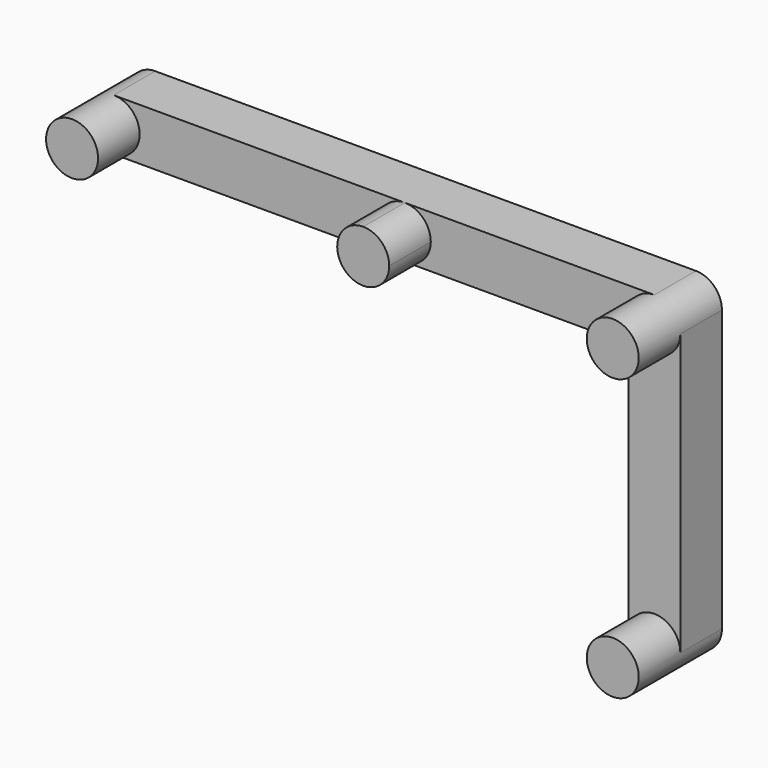
from build123d import *

# Parameters (mm, degrees)
F1_DEPTH = 5
F2_DEPTH = 10


with BuildPart() as f1:
    # F0 (on Front) → F1 (new body)
    with BuildSketch(Plane.XZ):
        with BuildLine():
            ThreePointArc((0, -2.5), (1.767766953, -1.767766953), (2.5, 0))
            ThreePointArc((2.5, 0), (1.767766953, 1.767766953), (0, 2.5))
            Line((0, 2.5), (0, -2.5))
        make_face()
        with BuildLine():
            ThreePointArc((0, 2.5), (1.767766953, 1.767766953), (2.5, 0))
            ThreePointArc((2.5, 0), (1.767766953, -1.767766953), (0, -2.5))
            Line((0, -2.5), (28, -2.5))
            ThreePointArc((28, -2.5), (25.5, 0), (28, 2.5))
            Line((28, 2.5), (0, 2.5))
        make_face()
        with BuildLine():
            Line((0, -2.5), (0, 2.5))
            ThreePointArc((0, 2.5), (-2.5, 0), (0, -2.5))
        make_face()
        with BuildLine():
            Line((52, 2.5), (28, 2.5))
            ThreePointArc((28, 2.5), (29.767766953, 1.767766953), (30.5, 0))
            ThreePointArc((30.5, 0), (29.767766953, -1.767766953), (28, -2.5))
            Line((28, -2.5), (49.5, -2.5))
            Line((49.5, -2.5), (49.5, 0))
            ThreePointArc((49.5, 0), (50.232233047, 1.767766953), (52, 2.5))
        make_face()
        with BuildLine():
            ThreePointArc((30.5, 0), (29.767766953, 1.767766953), (28, 2.5))
            ThreePointArc((28, 2.5), (25.5, 0), (28, -2.5))
            ThreePointArc((28, -2.5), (29.767766953, -1.767766953), (30.5, 0))
        make_face()
        with BuildLine():
            Line((52, 0), (52, 2.5))
            ThreePointArc((52, 2.5), (50.232233047, 1.767766953), (49.5, 0))
            Line((49.5, 0), (52, 0))
        make_face()
        with BuildLine():
            ThreePointArc((54.5, 0), (53.767766953, 1.767766953), (52, 2.5))
            Line((52, 2.5), (52, 0))
            Line((52, 0), (54.5, 0))
        make_face()
        with BuildLine():
            Line((49.5, 0), (49.5, -2.5))
            Line((49.5, -2.5), (52, -2.5))
            ThreePointArc((52, -2.5), (50.232233047, -1.767766953), (49.5, 0))
        make_face()
        with BuildLine():
            Line((52, -2.5), (49.5, -2.5))
            Line((49.5, -2.5), (49.5, -27))
            ThreePointArc((49.5, -27), (52, -24.5), (54.5, -27))
            Line((54.5, -27), (54.5, 0))
            ThreePointArc((54.5, 0), (53.767766953, -1.767766953), (52, -2.5))
        make_face()
        with BuildLine():
            ThreePointArc((52, -2.5), (53.767766953, -1.767766953), (54.5, 0))
            Line((54.5, 0), (52, 0))
            Line((52, 0), (52, -2.5))
        make_face()
        with BuildLine():
            Line((54.5, -27), (49.5, -27))
            ThreePointArc((49.5, -27), (52, -29.5), (54.5, -27))
        make_face()
        with BuildLine():
            ThreePointArc((54.5, -27), (52, -24.5), (49.5, -27))
            Line((49.5, -27), (54.5, -27))
        make_face()
        with BuildLine():
            Line((52, 0), (49.5, 0))
            ThreePointArc((49.5, 0), (50.232233047, -1.767766953), (52, -2.5))
            Line((52, -2.5), (52, 0))
        make_face()
    extrude(amount=F1_DEPTH)

    # F0 (on Front) → F2 (join)
    with BuildSketch(Plane.XZ):
        with BuildLine():
            ThreePointArc((0, -2.5), (1.767766953, -1.767766953), (2.5, 0))
            ThreePointArc((2.5, 0), (1.767766953, 1.767766953), (0, 2.5))
            Line((0, 2.5), (0, -2.5))
        make_face()
        with BuildLine():
            Line((0, -2.5), (0, 2.5))
            ThreePointArc((0, 2.5), (-2.5, 0), (0, -2.5))
        make_face()
        with BuildLine():
            ThreePointArc((30.5, 0), (29.767766953, 1.767766953), (28, 2.5))
            ThreePointArc((28, 2.5), (25.5, 0), (28, -2.5))
            ThreePointArc((28, -2.5), (29.767766953, -1.767766953), (30.5, 0))
        make_face()
        with BuildLine():
            Line((52, 0), (49.5, 0))
            ThreePointArc((49.5, 0), (50.232233047, -1.767766953), (52, -2.5))
            Line((52, -2.5), (52, 0))
        make_face()
        with BuildLine():
            ThreePointArc((52, -2.5), (53.767766953, -1.767766953), (54.5, 0))
            Line((54.5, 0), (52, 0))
            Line((52, 0), (52, -2.5))
        make_face()
        with BuildLine():
            ThreePointArc((54.5, 0), (53.767766953, 1.767766953), (52, 2.5))
            Line((52, 2.5), (52, 0))
            Line((52, 0), (54.5, 0))
        make_face()
        with BuildLine():
            Line((52, 0), (52, 2.5))
            ThreePointArc((52, 2.5), (50.232233047, 1.767766953), (49.5, 0))
            Line((49.5, 0), (52, 0))
        make_face()
        with BuildLine():
            ThreePointArc((54.5, -27), (52, -24.5), (49.5, -27))
            Line((49.5, -27), (54.5, -27))
        make_face()
        with BuildLine():
            Line((54.5, -27), (49.5, -27))
            ThreePointArc((49.5, -27), (52, -29.5), (54.5, -27))
        make_face()
    extrude(amount=F2_DEPTH)


solid = f1.part
